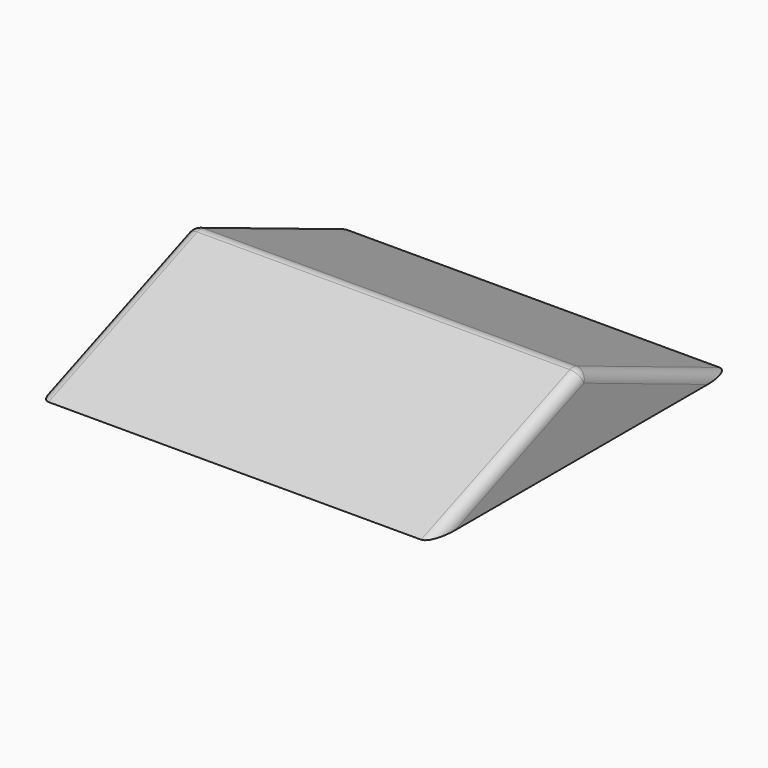
from build123d import *

# Parameters (mm, degrees)
F3_DEPTH = 183
F4_R     = 5


with BuildPart() as f3:
    # F2 (on offset) → F3 (new body)
    with BuildSketch(Plane.YZ.offset(-0.6)):
        Polygon((-88.228256, 0), (84.95222, 0), (0, 35.154022), align=None)
    extrude(amount=-F3_DEPTH)

    # F4
    f4_edges = [f3.edges().sort_by_distance(p)[0] for p in [
        (-0.6, -44.114128, 17.577011),
        (-183.6, -44.114128, 17.577011),
        (-0.6, 42.47611, 17.577011),
        (-92.1, 0, 35.154022),
        (-183.6, 42.47611, 17.577011),
    ]]
    fillet(f4_edges, radius=F4_R)


solid = f3.part
